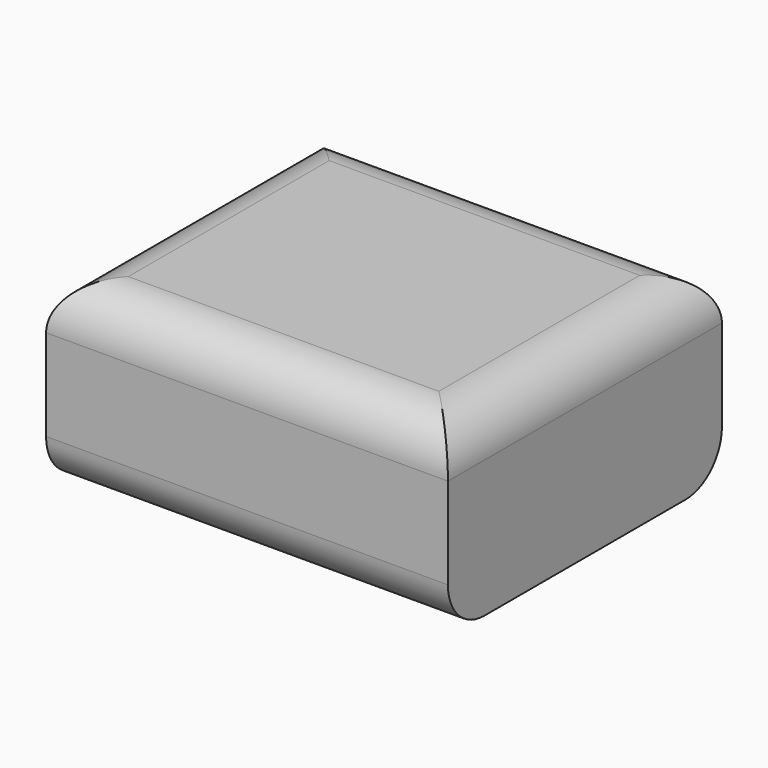
from build123d import *

# Parameters (mm, degrees)
F0_W     = 44
F0_H     = 20
F1_DEPTH = 37.5
F2_R     = 5


with BuildPart() as f1:
    # F0 (on Front) → F1 (new body)
    with BuildSketch(Plane.XZ):
        with Locations((22, 10)):
            Rectangle(F0_W, F0_H)
    extrude(amount=F1_DEPTH)

    # F2
    f2_edges = [f1.edges().sort_by_distance(p)[0] for p in [
        (44, -18.75, 20),
        (0, -18.75, 20),
        (22, 0, 20),
        (22, -37.5, 20),
        (22, -37.5, 0),
        (22, 0, 0),
    ]]
    fillet(f2_edges, radius=F2_R)


solid = f1.part
